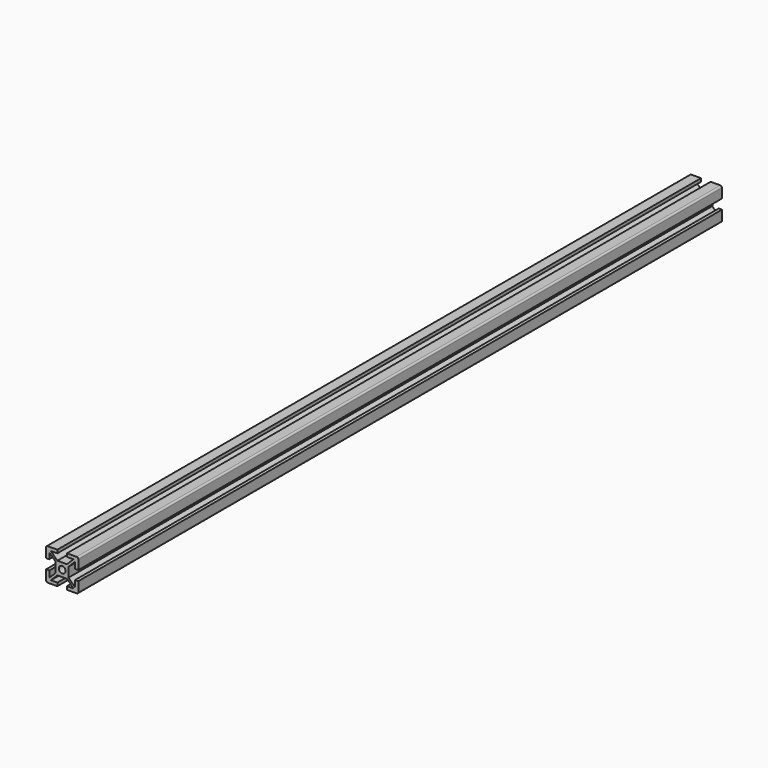
from build123d import *

# Parameters (mm, degrees)
F0_R     = 2.1
F2_DEPTH = 500


with BuildPart() as f2:
    # F0 (on Front) → F2 (new body)
    with BuildSketch(Plane.XZ):
        with BuildLine():
            ThreePointArc((-10, -9), (-9.7071067812, -9.7071067812), (-9, -10))
            Line((-9, -10), (-3, -10))
            Line((-3, -10), (-3, -8))
            Line((-3, -8), (-7, -8))
            Line((-7, -8), (-3, -4))
            Line((-3, -4), (3, -4))
            Line((3, -4), (7, -8))
            Line((7, -8), (3, -8))
            Line((3, -8), (3, -10))
            Line((3, -10), (9, -10))
            ThreePointArc((9, -10), (9.7071067812, -9.7071067812), (10, -9))
            Line((10, -9), (10, -3))
            Line((10, -3), (8, -3))
            Line((8, -3), (8, -7))
            Line((8, -7), (4, -3))
            Line((4, -3), (4, 3))
            Line((4, 3), (8, 7))
            Line((8, 7), (8, 3.0783633339))
            Line((8, 3.0783633339), (10, 3.0783633339))
            Line((10, 3.0783633339), (10, 9))
            ThreePointArc((10, 9), (9.7071067812, 9.7071067812), (9, 10))
            Line((9, 10), (3, 10))
            Line((3, 10), (3, 8))
            Line((3, 8), (7, 8))
            Line((7, 8), (3, 4))
            Line((3, 4), (-3, 4))
            Line((-3, 4), (-7, 8))
            Line((-7, 8), (-3, 8))
            Line((-3, 8), (-3, 10))
            Line((-3, 10), (-9, 10))
            ThreePointArc((-9, 10), (-9.7071067812, 9.7071067812), (-10, 9))
            Line((-10, 9), (-10, 3.0783633339))
            Line((-10, 3.0783633339), (-8.1, 3.0783633339))
            ThreePointArc((-8.1, 3.0783633339), (-8.0292893219, 3.1076526558), (-8, 3.1783633339))
            Line((-8, 3.1783633339), (-8, 7))
            Line((-8, 7), (-4, 3))
            Line((-4, 3), (-4, -3))
            Line((-4, -3), (-8, -7))
            Line((-8, -7), (-8, -3))
            Line((-8, -3), (-10, -3))
            Line((-10, -3), (-10, -9))
        make_face()
        Circle(F0_R, mode=Mode.SUBTRACT)
    extrude(amount=F2_DEPTH)


solid = f2.part
